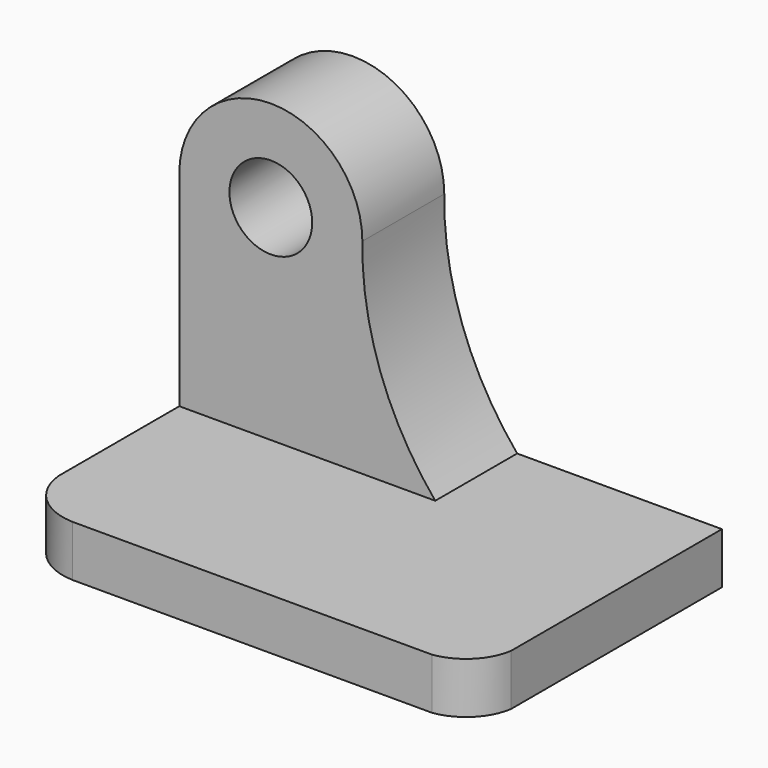
from build123d import *

# Parameters (mm, degrees)
F0_W     = 57.15
F0_H     = 44.45
F1_DEPTH = 38.1
F3_DEPTH = 50.8
F4_R     = 5.1343253719
F5_DEPTH = 50.8
F6_R     = 5.1343253719
F7_DEPTH = 25.4
F9_DEPTH = 25.4


with BuildPart() as f1:
    # F0 (on Front) → F1 (new body)
    with BuildSketch(Plane.XZ):
        with Locations((5.8669857811, -4.9598356709)):
            Rectangle(F0_W, F0_H)
    extrude(amount=F1_DEPTH)

    # F2 (on face) → F3 (cut)
    with BuildSketch(Plane.XZ.offset(38.1)):
        with BuildLine():
            Line((-22.7080142189, 17.2651643291), (-22.7080142189, 4.5651643291))
            ThreePointArc((-22.7080142189, 4.5651643291), (-11.3540071095, 15.9191714386), (0, 4.5651643291))
            ThreePointArc((0, 4.5651643291), (2.2272511589, -8.9513703214), (9.0419857811, -20.8348356709))
            Line((9.0419857811, -20.8348356709), (34.4419857811, -20.8348356709))
            Line((34.4419857811, -20.8348356709), (34.4419857811, 17.2651643291))
            Line((34.4419857811, 17.2651643291), (-22.7080142189, 17.2651643291))
        make_face()
    extrude(amount=-F3_DEPTH, mode=Mode.SUBTRACT)

    # F4 (on face) → F5 (cut)
    with BuildSketch(Plane.XZ.offset(38.1)):
        with Locations((-11.3540071095, 4.5651643291)):
            Circle(F4_R)
    extrude(amount=-F5_DEPTH, mode=Mode.SUBTRACT)

    # F6 (on face) → F7 (cut)
    with BuildSketch(Plane.XZ.offset(38.1)):
        with BuildLine():
            Line((-22.7080142189, -20.8348356709), (9.0419857811, -20.8348356709))
            ThreePointArc((9.0419857811, -20.8348356709), (2.2272511589, -8.9513703214), (0, 4.5651643291))
            ThreePointArc((0, 4.5651643291), (-11.3540071095, 15.9191714386), (-22.7080142189, 4.5651643291))
            Line((-22.7080142189, 4.5651643291), (-22.7080142189, -20.8348356709))
        make_face()
        with Locations((-11.3540071095, 4.5651643291)):
            Circle(F6_R, mode=Mode.SUBTRACT)
    extrude(amount=-F7_DEPTH, mode=Mode.SUBTRACT)

    # F8 (on face) → F9 (cut)
    with BuildSketch(Plane.XY.offset(-20.8348356709)):
        with BuildLine():
            ThreePointArc((-15.6066697437, -38.1), (-20.4472184025, -36.0749113012), (-22.7080142189, -31.3398613719))
            Line((-22.7080142189, -31.3398613719), (-22.7080142189, -38.1))
            Line((-22.7080142189, -38.1), (-15.6066697437, -38.1))
        make_face()
        with BuildLine():
            ThreePointArc((34.4419857811, -32.7223523103), (32.5917045845, -36.3084613898), (28.9758909494, -38.1))
            Line((28.9758909494, -38.1), (34.4419857811, -38.1))
            Line((34.4419857811, -38.1), (34.4419857811, -32.7223523103))
        make_face()
    extrude(amount=-F9_DEPTH, mode=Mode.SUBTRACT)


solid = f1.part
